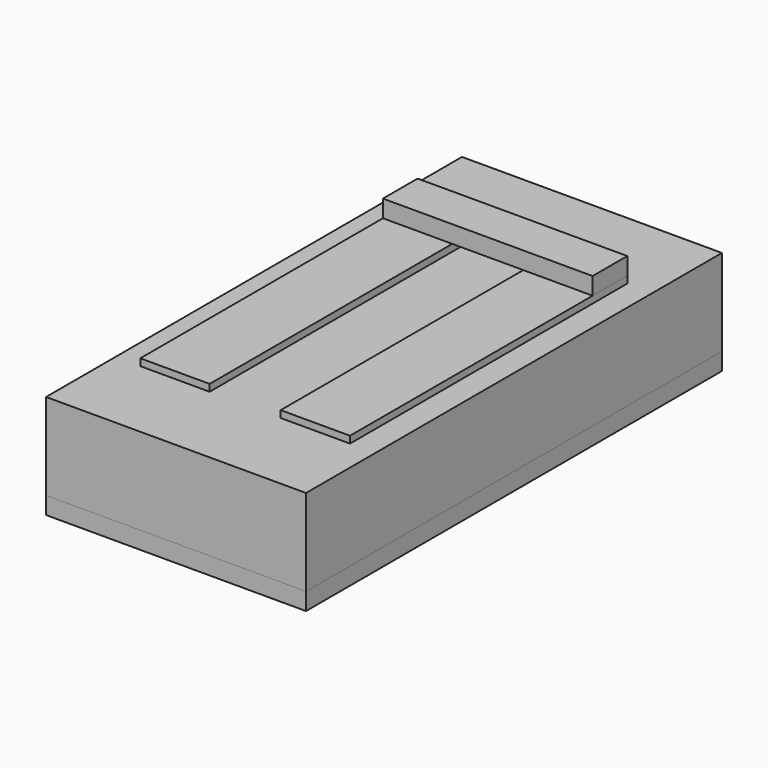
from build123d import *

# Parameters (mm, degrees)
F0_W      = 8
F0_H      = 40
F1_DEPTH  = 0.8
F2_W      = 30
F2_H      = 60
F3_DEPTH  = 10
F4_W      = 24.2
F4_H      = 5
F5_DEPTH  = 2
F6_R      = 7.2
F7_DEPTH  = 5.2
F8_R      = 2.5
F9_DEPTH  = 3
F10_SIZE  = 1
F11_W     = 30
F11_H     = 60
F11_R     = 1.5
F12_DEPTH = 2


with BuildPart() as f1:
    # F0 (on Top) → F1 (new body)
    with BuildSketch(Plane.XY):
        with Locations((-8.1, 0)):
            Rectangle(F0_W, F0_H)
        with Locations((8.1, 0)):
            Rectangle(F0_W, F0_H)
    extrude(amount=F1_DEPTH)

    # F2 (on face) → F3 (join)
    with BuildSketch(Plane(origin=(0, 0, 0), x_dir=(1, 0, 0), z_dir=(0, 0, -1))):
        with Locations((0.024011, 0)):
            Rectangle(F2_W, F2_H)
    extrude(amount=F3_DEPTH)

    # F6 (on face) → F7 (cut)
    with BuildSketch(Plane(origin=(0, 0, -10), x_dir=(1, 0, 0), z_dir=(0, 0, -1))):
        Circle(F6_R)
    extrude(amount=-F7_DEPTH, mode=Mode.SUBTRACT)

    # F8 (on face) → F9 (join)
    with BuildSketch(Plane(origin=(0, 0, -10), x_dir=(1, 0, 0), z_dir=(0, 0, -1))):
        with Locations((0, 20)):
            Circle(F8_R)
        with Locations((0, -20)):
            Circle(F8_R)
    extrude(amount=F9_DEPTH)

    # F10
    f10_edges = [f1.edges().sort_by_distance(p)[0] for p in [
        (-2.5, -20, -13),
        (-2.5, 20, -13),
    ]]
    chamfer(f10_edges, length=F10_SIZE)


with BuildPart() as f5:
    # F4 (on face) → F5 (new body)
    with BuildSketch(Plane.XY.offset(0.8)):
        with Locations((0, 17.5)):
            Rectangle(F4_W, F4_H)
    extrude(amount=F5_DEPTH)


with BuildPart() as f12:
    # F11 (on face) → F12 (new body)
    with BuildSketch(Plane(origin=(0, 0, -10), x_dir=(1, 0, 0), z_dir=(0, 0, -1))):
        with Locations((0.024011, 0)):
            Rectangle(F11_W, F11_H)
        with Locations((0, -20)):
            Circle(F11_R, mode=Mode.SUBTRACT)
        Circle(F11_R, mode=Mode.SUBTRACT)
        with Locations((0, 20)):
            Circle(F11_R, mode=Mode.SUBTRACT)
    extrude(amount=F12_DEPTH)


solid = Compound([f1.part, f5.part, f12.part])
